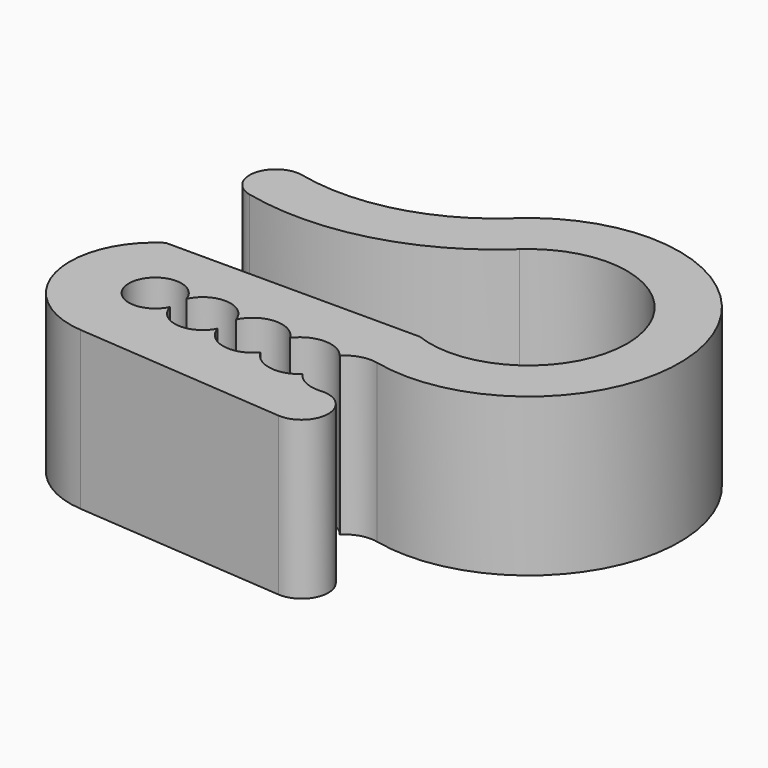
from build123d import *

# Parameters (mm, degrees)
F1_DEPTH = 4.8


with BuildPart() as f1:
    # F0 (on Top) → F1 (new body)
    with BuildSketch(Plane.XY):
        with BuildLine():
            ThreePointArc((-2.04115, 2.198569), (2.945707, 0.568164), (-1.077033, -2.8))
            Line((-1.077033, -2.8), (-8.819599, -2.8))
            ThreePointArc((-8.819599, -2.8), (-9.914351, -5.619949), (-7.599531, -7.567307))
            Line((-7.599531, -7.567307), (-1.165348, -8.073707))
            ThreePointArc((-1.165348, -8.073707), (-0.290192, -7.263775), (-1.167239, -6.45589))
            ThreePointArc((-1.167239, -6.45589), (-1.664112, -6.368486), (-2.055084, -6.049638))
            ThreePointArc((-2.055084, -6.049638), (-2.854948, -6.281505), (-3.530171, -5.794044))
            ThreePointArc((-3.530171, -5.794044), (-4.405977, -6.106748), (-5.090893, -5.477693))
            ThreePointArc((-5.090893, -5.477693), (-5.93701, -5.942517), (-6.671953, -5.316551))
            ThreePointArc((-6.671953, -5.316551), (-8.193064, -4.912553), (-6.627481, -4.751493))
            ThreePointArc((-6.627481, -4.751493), (-5.80366, -4.248208), (-5.040678, -4.839676))
            ThreePointArc((-5.040678, -4.839676), (-4.265786, -4.325514), (-3.449683, -4.77138))
            ThreePointArc((-3.449683, -4.77138), (-2.706515, -4.395553), (-1.952772, -4.749696))
            ThreePointArc((-1.952772, -4.749696), (-1.523093, -4.497733), (-1.025168, -4.484309))
            ThreePointArc((-1.025168, -4.484309), (4.443296, 1.190427), (-3.129763, 3.37114))
            ThreePointArc((-3.129763, 3.37114), (-5.617467, 1.998161), (-8.45852, 1.95172))
            ThreePointArc((-8.45852, 1.95172), (-9.418422, 1.352897), (-8.819599, 0.392995))
            ThreePointArc((-8.819599, 0.392995), (-5.205635, 0.452071), (-2.04115, 2.198569))
        make_face()
    extrude(amount=F1_DEPTH)


solid = f1.part
